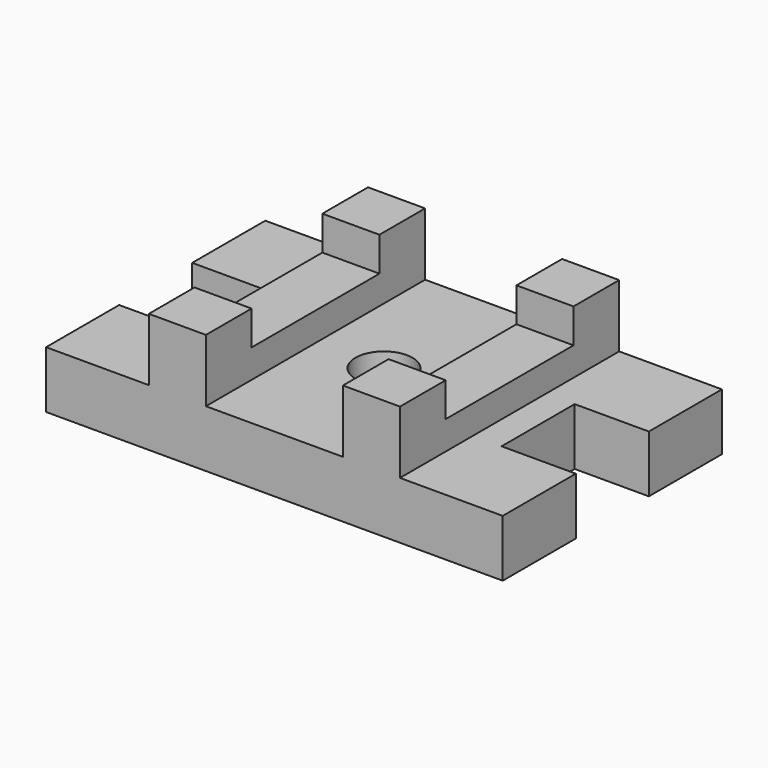
from build123d import *

# Parameters (mm, degrees)
F0_W     = 31.75
F0_H     = 31.75
F0_R     = 15.875
F0_H_2   = 88.9
F1_DEPTH = 31.75
F2_DEPTH = 34.925
F3_DEPTH = 15.875


with BuildPart() as f1:
    # F0 (on Top) → F1 (new body)
    with BuildSketch(Plane.XY):
        Polygon((-69.85, 76.2), (-127, 76.2), (-127, 25.4), (-85.725, 25.4), (-85.725, -25.4), (-127, -25.4), (-127, -76.2), (-69.85, -76.2), (-69.85, -44.45), (-69.85, 44.45), align=None)
        with Locations((-53.975, 60.325)):
            Rectangle(F0_W, F0_H)
        Polygon((38.1, 76.2), (-38.1, 76.2), (-38.1, 44.45), (-38.1, -44.45), (-38.1, -76.2), (38.1, -76.2), (38.1, -44.45), (38.1, 44.45), align=None)
        Circle(F0_R, mode=Mode.SUBTRACT)
        with Locations((53.975, 60.325)):
            Rectangle(F0_W, F0_H)
        with Locations((-53.975, -60.325)):
            Rectangle(F0_W, F0_H)
        Polygon((127, 76.2), (69.85, 76.2), (69.85, 44.45), (69.85, -44.45), (69.85, -76.2), (127, -76.2), (127, -25.4), (85.725, -25.4), (85.725, 25.4), (127, 25.4), align=None)
        with Locations((53.975, -60.325)):
            Rectangle(F0_W, F0_H)
        with Locations((-53.975, 0)):
            Rectangle(F0_W, F0_H_2)
        with Locations((53.975, 0)):
            Rectangle(F0_W, F0_H_2)
    extrude(amount=-F1_DEPTH)

    # F0 (on Top) → F2 (join)
    with BuildSketch(Plane.XY):
        with Locations((-53.975, 60.325)):
            Rectangle(F0_W, F0_H)
        with Locations((-53.975, -60.325)):
            Rectangle(F0_W, F0_H)
        with Locations((53.975, 60.325)):
            Rectangle(F0_W, F0_H)
        with Locations((53.975, -60.325)):
            Rectangle(F0_W, F0_H)
    extrude(amount=F2_DEPTH)

    # F0 (on Top) → F3 (join)
    with BuildSketch(Plane.XY):
        with Locations((-53.975, 0)):
            Rectangle(F0_W, F0_H_2)
        with Locations((53.975, 0)):
            Rectangle(F0_W, F0_H_2)
    extrude(amount=F3_DEPTH)


solid = f1.part
